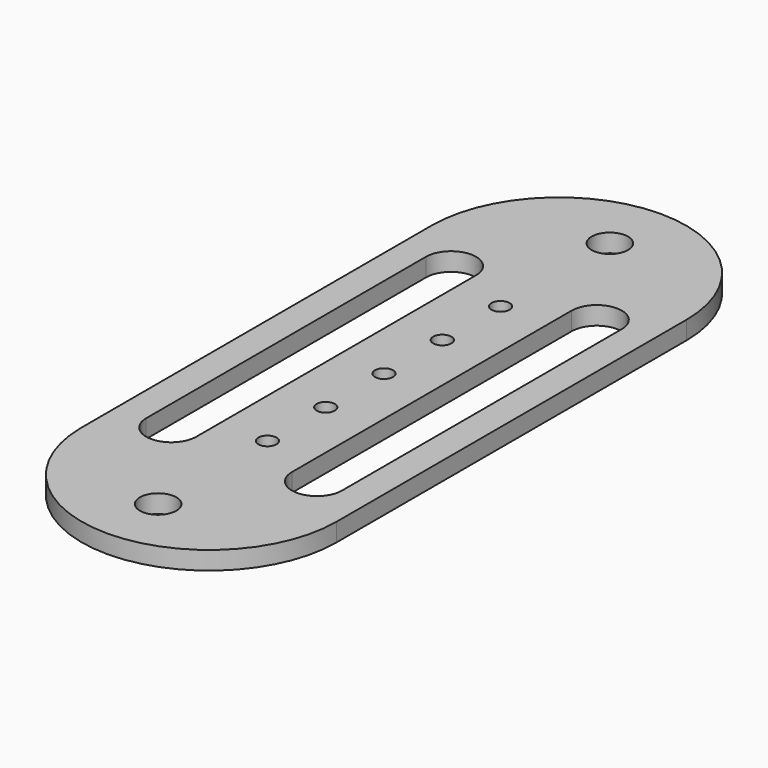
from build123d import *

# Parameters (mm, degrees)
F0_R     = 3.175
F0_W     = 44.45
F0_H     = 76.2
F0_R_2   = 1.5875
F1_DEPTH = 3.175


with BuildPart() as f1:
    # F0 (on Top) → F1 (new body)
    with BuildSketch(Plane.XY):
        with BuildLine():
            ThreePointArc((16.728534, 58.82596), (-5.496466, 81.05096), (-27.721466, 58.82596))
            Line((-27.721466, 58.82596), (16.728534, 58.82596))
        make_face()
        with Locations((-5.496466, 69.93846)):
            Circle(F0_R, mode=Mode.SUBTRACT)
        with Locations((-5.496466, 20.72596)):
            Rectangle(F0_W, F0_H)
        with Locations((-5.496466, -4.67404)):
            Circle(F0_R_2, mode=Mode.SUBTRACT)
        with Locations((-5.496466, 8.02596)):
            Circle(F0_R_2, mode=Mode.SUBTRACT)
        with BuildLine():
            Line((-22.562091, -9.75404), (-22.562091, 51.20596))
            ThreePointArc((-22.562091, 51.20596), (-18.196466, 55.571585), (-13.830841, 51.20596))
            Line((-13.830841, 51.20596), (-13.830841, -9.75404))
            ThreePointArc((-13.830841, -9.75404), (-18.196466, -14.119665), (-22.562091, -9.75404))
        make_face(mode=Mode.SUBTRACT)
        with Locations((-5.496466, 46.12596)):
            Circle(F0_R_2, mode=Mode.SUBTRACT)
        with Locations((-5.496466, 20.72596)):
            Circle(F0_R_2, mode=Mode.SUBTRACT)
        with Locations((-5.496466, 33.42596)):
            Circle(F0_R_2, mode=Mode.SUBTRACT)
        with BuildLine():
            Line((2.837909, -9.75404), (2.837909, 51.20596))
            ThreePointArc((2.837909, 51.20596), (7.203534, 55.571585), (11.569159, 51.20596))
            Line((11.569159, 51.20596), (11.569159, -9.75404))
            ThreePointArc((11.569159, -9.75404), (7.203534, -14.119665), (2.837909, -9.75404))
        make_face(mode=Mode.SUBTRACT)
        with BuildLine():
            Line((16.728534, -17.37404), (-27.721466, -17.37404))
            ThreePointArc((-27.721466, -17.37404), (-5.496466, -39.59904), (16.728534, -17.37404))
        make_face()
        with Locations((-5.496466, -28.48654)):
            Circle(F0_R, mode=Mode.SUBTRACT)
    extrude(amount=F1_DEPTH)


solid = f1.part
